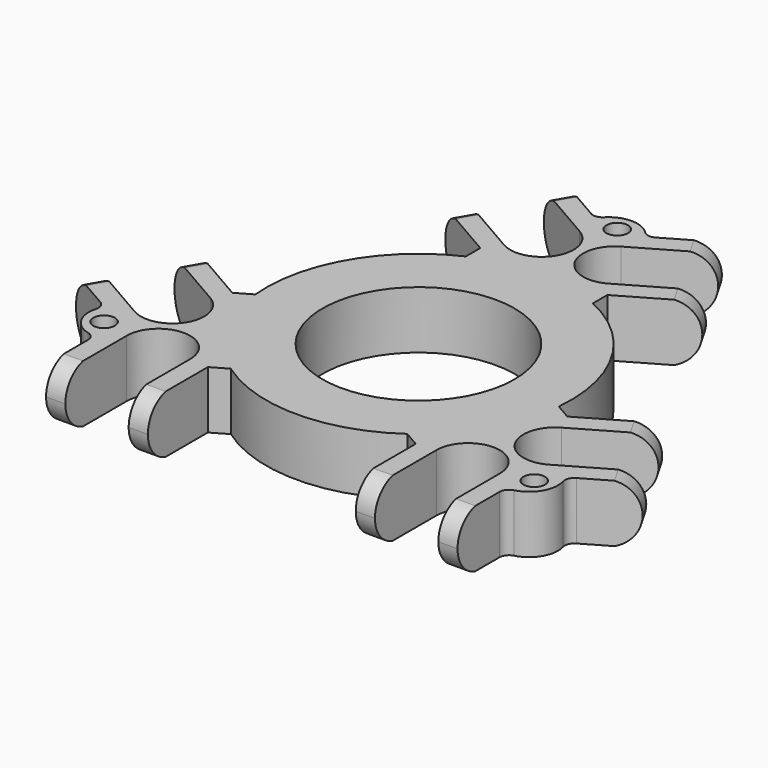
from build123d import *

# Parameters (mm, degrees)
F0_R          = 2.25
F0_R_2        = 20
F1_DEPTH      = 12
F5_DEPTH      = 25
F5_DEPTH_BACK = 68
F6_DEPTH      = 25
F6_DEPTH_BACK = 68
F7_DEPTH      = 25
F7_DEPTH_BACK = 68


with BuildPart() as f1:
    # F0 (on Top) → F1 (new body)
    with BuildSketch(Plane.XY):
        with BuildLine():
            Line((-13.2341793977, 32.6400236937), (-13.2341793977, 28.8603360284))
            ThreePointArc((-13.2341793977, 28.8603360284), (-27.4963065702, 15.875), (-31.6108738612, -2.9690324575))
            Line((-31.6108738612, -2.9690324575), (-34.8841793977, -4.8588762902))
            Line((-34.8841793977, -4.8588762902), (-48.4064064606, 2.9481851446))
            Line((-48.4064064606, 2.9481851446), (-50.4064064606, -0.5159164705))
            Line((-50.4064064606, -0.5159164705), (-36.55, -8.5159164705))
            ThreePointArc((-36.55, -8.5159164705), (-34.134232335, -17.5316841355), (-43.15, -19.9474518005))
            Line((-43.15, -19.9474518005), (-57.0064064606, -11.9474518005))
            Line((-57.0064064606, -11.9474518005), (-59.0064064606, -15.4115534156))
            Line((-59.0064064606, -15.4115534156), (-49.5582039325, -20.8664756886))
            ThreePointArc((-49.5582039325, -20.8664756886), (-48.7069743457, -21.8415925381), (-48.6311529494, -23.1337596308))
            ThreePointArc((-48.6311529494, -23.1337596308), (-48.0461524227, -27.7394590348), (-44.35, -30.5489340541))
            ThreePointArc((-44.35, -30.5489340541), (-43.2688611699, -31.2606808558), (-42.85, -32.4854257272))
            Line((-42.85, -32.4854257272), (-42.85, -43.395270273))
            Line((-42.85, -43.395270273), (-38.85, -43.395270273))
            Line((-38.85, -43.395270273), (-38.85, -27.395270273))
            ThreePointArc((-38.85, -27.395270273), (-32.25, -20.795270273), (-25.65, -27.395270273))
            Line((-25.65, -27.395270273), (-25.65, -43.395270273))
            Line((-25.65, -43.395270273), (-21.65, -43.395270273))
            Line((-21.65, -43.395270273), (-21.65, -27.7811474035))
            Line((-21.65, -27.7811474035), (-18.3766944635, -25.8913035708))
            ThreePointArc((-18.3766944635, -25.8913035708), (0, -31.75), (18.3766944635, -25.8913035708))
            Line((18.3766944635, -25.8913035708), (21.65, -27.7811474035))
            Line((21.65, -27.7811474035), (21.65, -43.395270273))
            Line((21.65, -43.395270273), (25.65, -43.395270273))
            Line((25.65, -43.395270273), (25.65, -27.395270273))
            ThreePointArc((25.65, -27.395270273), (32.25, -20.795270273), (38.85, -27.395270273))
            Line((38.85, -27.395270273), (38.85, -43.395270273))
            Line((38.85, -43.395270273), (42.85, -43.395270273))
            Line((42.85, -43.395270273), (42.85, -32.4854257272))
            ThreePointArc((42.85, -32.4854257272), (43.2688611699, -31.2606808558), (44.35, -30.5489340541))
            ThreePointArc((44.35, -30.5489340541), (48.0461524227, -27.7394590348), (48.6311529494, -23.1337596308))
            ThreePointArc((48.6311529494, -23.1337596308), (48.7069743457, -21.8415925381), (49.5582039325, -20.8664756886))
            Line((49.5582039325, -20.8664756886), (59.0064064606, -15.4115534156))
            Line((59.0064064606, -15.4115534156), (57.0064064606, -11.9474518005))
            Line((57.0064064606, -11.9474518005), (43.15, -19.9474518005))
            ThreePointArc((43.15, -19.9474518005), (34.134232335, -17.5316841355), (36.55, -8.5159164705))
            Line((36.55, -8.5159164705), (50.4064064606, -0.5159164705))
            Line((50.4064064606, -0.5159164705), (48.4064064606, 2.9481851446))
            Line((48.4064064606, 2.9481851446), (34.8841793977, -4.8588762902))
            Line((34.8841793977, -4.8588762902), (31.6108738612, -2.9690324575))
            ThreePointArc((31.6108738612, -2.9690324575), (27.4963065702, 15.875), (13.2341793977, 28.8603360284))
            Line((13.2341793977, 28.8603360284), (13.2341793977, 32.6400236937))
            Line((13.2341793977, 32.6400236937), (26.7564064606, 40.4470851285))
            Line((26.7564064606, 40.4470851285), (24.7564064606, 43.9111867436))
            Line((24.7564064606, 43.9111867436), (10.9, 35.9111867436))
            ThreePointArc((10.9, 35.9111867436), (1.884232335, 38.3269544086), (4.3, 47.3427220735))
            Line((4.3, 47.3427220735), (18.1564064606, 55.3427220735))
            Line((18.1564064606, 55.3427220735), (16.1564064606, 58.8068236887))
            Line((16.1564064606, 58.8068236887), (6.7082039325, 53.3519014158))
            ThreePointArc((6.7082039325, 53.3519014158), (5.4381131758, 53.1022733939), (4.2811529494, 53.6826936849))
            ThreePointArc((4.2811529494, 53.6826936849), (0, 55.4789180696), (-4.2811529494, 53.6826936849))
            ThreePointArc((-4.2811529494, 53.6826936849), (-5.4381131758, 53.1022733939), (-6.7082039325, 53.3519014158))
            Line((-6.7082039325, 53.3519014158), (-16.1564064606, 58.8068236887))
            Line((-16.1564064606, 58.8068236887), (-18.1564064606, 55.3427220735))
            Line((-18.1564064606, 55.3427220735), (-4.3, 47.3427220735))
            ThreePointArc((-4.3, 47.3427220735), (-1.884232335, 38.3269544086), (-10.9, 35.9111867436))
            Line((-10.9, 35.9111867436), (-24.7564064606, 43.9111867436))
            Line((-24.7564064606, 43.9111867436), (-26.7564064606, 40.4470851285))
            Line((-26.7564064606, 40.4470851285), (-13.2341793977, 32.6400236937))
        make_face()
        with Locations((-44.8037193958, -25.8674394539)):
            Circle(F0_R, mode=Mode.SUBTRACT)
        with Locations((44.8037193958, -25.8674394539)):
            Circle(F0_R, mode=Mode.SUBTRACT)
        Circle(F0_R_2, mode=Mode.SUBTRACT)
        with Locations((0, 51.7348789078)):
            Circle(F0_R, mode=Mode.SUBTRACT)
    extrude(amount=F1_DEPTH)

    # F2 (on face) → F5 (cut, two sides)
    with BuildSketch(Plane(origin=(21.65, 0, 0), x_dir=(0, -1, 0), z_dir=(-1, 0, 0))) as f5_sk:
        with BuildLine():
            ThreePointArc((38.7840602421, 12), (42.1092993822, 9.7836245172), (43.395270273, 6))
            Line((43.395270273, 6), (43.395270273, 12))
            Line((43.395270273, 12), (38.7840602421, 12))
        make_face()
        with BuildLine():
            ThreePointArc((38.7840602421, 0), (38.0044089294, -0.1549812), (37.2113464037, -0.2090845469))
            Line((37.2113464037, -0.2090845469), (37.2113464037, -2.7538968716))
            Line((37.2113464037, -2.7538968716), (50.0447638333, -2.7538968716))
            Line((50.0447638333, -2.7538968716), (50.0447638333, 14.7538968716))
            Line((50.0447638333, 14.7538968716), (37.2113464037, 14.7538968716))
            Line((37.2113464037, 14.7538968716), (37.2113464037, 12.2090845469))
            ThreePointArc((37.2113464037, 12.2090845469), (38.0044089294, 12.1549812), (38.7840602421, 12))
            Line((38.7840602421, 12), (43.395270273, 12))
            Line((43.395270273, 12), (43.395270273, 6))
            Line((43.395270273, 6), (43.395270273, 0))
            Line((43.395270273, 0), (38.7840602421, 0))
        make_face()
        with BuildLine():
            ThreePointArc((43.395270273, 6), (42.1092993822, 2.2163754828), (38.7840602421, 0))
            Line((38.7840602421, 0), (43.395270273, 0))
            Line((43.395270273, 0), (43.395270273, 6))
        make_face()
    extrude(amount=-F5_DEPTH, mode=Mode.SUBTRACT)
    extrude(f5_sk.sketch, amount=F5_DEPTH_BACK, mode=Mode.SUBTRACT)

    # F3 (on face) → F6 (cut, two sides)
    with BuildSketch(Plane(origin=(-10.825, 18.7494499919, 0), x_dir=(0.8660254038, 0.5, 0), z_dir=(0.5, -0.8660254038, 0))) as f6_sk:
        with BuildLine():
            ThreePointArc((38.7840602421, 0), (38.0044089294, -0.1549812), (37.2113464037, -0.2090845469))
            Line((37.2113464037, -0.2090845469), (37.2113464037, -2.7538968716))
            Line((37.2113464037, -2.7538968716), (50.0447638333, -2.7538968716))
            Line((50.0447638333, -2.7538968716), (50.0447638333, 14.7538968716))
            Line((50.0447638333, 14.7538968716), (37.2113464037, 14.7538968716))
            Line((37.2113464037, 14.7538968716), (37.2113464037, 12.2090845469))
            ThreePointArc((37.2113464037, 12.2090845469), (38.0044089294, 12.1549812), (38.7840602421, 12))
            Line((38.7840602421, 12), (43.395270273, 12))
            Line((43.395270273, 12), (43.395270273, 6))
            Line((43.395270273, 6), (43.395270273, 0))
            Line((43.395270273, 0), (38.7840602421, 0))
        make_face()
        with BuildLine():
            ThreePointArc((38.7840602421, 12), (42.1092993822, 9.7836245172), (43.395270273, 6))
            Line((43.395270273, 6), (43.395270273, 12))
            Line((43.395270273, 12), (38.7840602421, 12))
        make_face()
        with BuildLine():
            ThreePointArc((43.395270273, 6), (42.1092993822, 2.2163754828), (38.7840602421, 0))
            Line((38.7840602421, 0), (43.395270273, 0))
            Line((43.395270273, 0), (43.395270273, 6))
        make_face()
    extrude(amount=-F6_DEPTH, mode=Mode.SUBTRACT)
    extrude(f6_sk.sketch, amount=F6_DEPTH_BACK, mode=Mode.SUBTRACT)

    # F4 (on face) → F7 (cut, two sides)
    with BuildSketch(Plane(origin=(-10.825, -18.7494499919, 0), x_dir=(-0.8660254038, 0.5, 0), z_dir=(0.5, 0.8660254038, 0))) as f7_sk:
        with BuildLine():
            ThreePointArc((38.7840602421, 0), (38.0044089294, -0.1549812), (37.2113464037, -0.2090845469))
            Line((37.2113464037, -0.2090845469), (37.2113464037, -2.7538968716))
            Line((37.2113464037, -2.7538968716), (50.0447638333, -2.7538968716))
            Line((50.0447638333, -2.7538968716), (50.0447638333, 14.7538968716))
            Line((50.0447638333, 14.7538968716), (37.2113464037, 14.7538968716))
            Line((37.2113464037, 14.7538968716), (37.2113464037, 12.2090845469))
            ThreePointArc((37.2113464037, 12.2090845469), (38.0044089294, 12.1549812), (38.7840602421, 12))
            Line((38.7840602421, 12), (43.395270273, 12))
            Line((43.395270273, 12), (43.395270273, 6))
            Line((43.395270273, 6), (43.395270273, 0))
            Line((43.395270273, 0), (38.7840602421, 0))
        make_face()
        with BuildLine():
            ThreePointArc((43.395270273, 6), (42.1092993822, 2.2163754828), (38.7840602421, 0))
            Line((38.7840602421, 0), (43.395270273, 0))
            Line((43.395270273, 0), (43.395270273, 6))
        make_face()
        with BuildLine():
            ThreePointArc((38.7840602421, 12), (42.1092993822, 9.7836245172), (43.395270273, 6))
            Line((43.395270273, 6), (43.395270273, 12))
            Line((43.395270273, 12), (38.7840602421, 12))
        make_face()
    extrude(amount=-F7_DEPTH, mode=Mode.SUBTRACT)
    extrude(f7_sk.sketch, amount=F7_DEPTH_BACK, mode=Mode.SUBTRACT)


solid = f1.part
